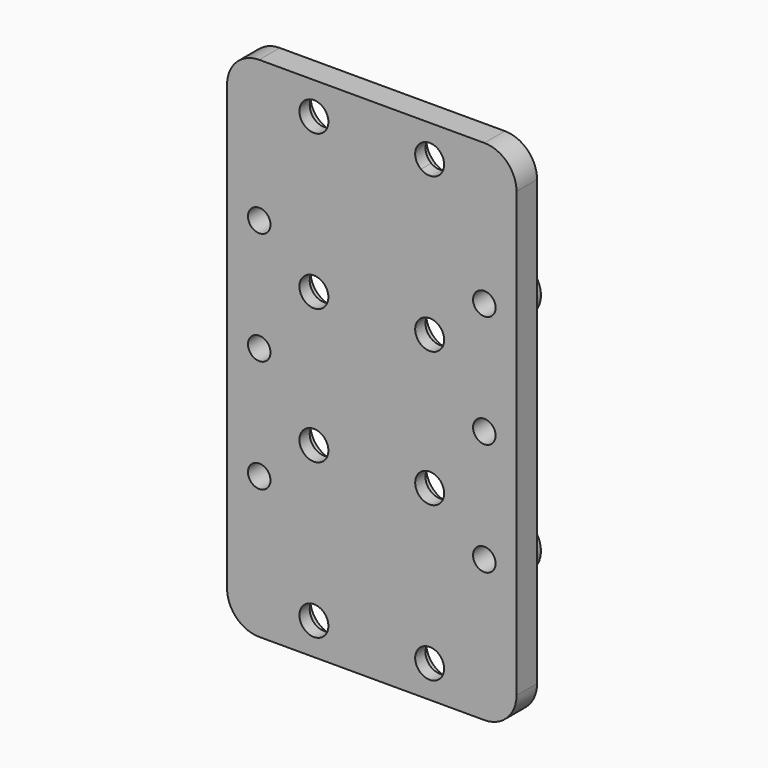
from build123d import *

# Parameters (mm, degrees)
F0_W     = 45
F0_H     = 79
F0_R     = 3.75
F0_R_2   = 4
F0_R_3   = 1.75
F0_R_4   = 2.25
F1_DEPTH = 4
F2_DEPTH = 2
F3_R     = 5
F4_DEPTH = 2


with BuildPart() as f1:
    # F0 (on Front) → F1 (new body)
    with BuildSketch(Plane.XZ):
        Rectangle(F0_W, F0_H)
        with Locations((-9, -34.5)):
            Circle(F0_R, mode=Mode.SUBTRACT)
        with Locations((-17.5, -17.5)):
            Circle(F0_R_2, mode=Mode.SUBTRACT)
        with Locations((-9, -10.5)):
            Circle(F0_R, mode=Mode.SUBTRACT)
        with Locations((9, -34.5)):
            Circle(F0_R, mode=Mode.SUBTRACT)
        with Locations((9, -10.5)):
            Circle(F0_R, mode=Mode.SUBTRACT)
        with Locations((17.5, -17.5)):
            Circle(F0_R_2, mode=Mode.SUBTRACT)
        with Locations((-17.5, 0)):
            Circle(F0_R_3, mode=Mode.SUBTRACT)
        with Locations((-17.5, 17.5)):
            Circle(F0_R_2, mode=Mode.SUBTRACT)
        with BuildLine():
            ThreePointArc((-5.25, 10.5), (-12.354102, 8.822949), (-6.75, 13.5))
            ThreePointArc((-6.75, 13.5), (-5.645898, 12.177051), (-5.25, 10.5))
        make_face(mode=Mode.SUBTRACT)
        with BuildLine():
            ThreePointArc((-5.25, 34.5), (-5.645898, 32.822949), (-6.75, 31.5))
            ThreePointArc((-6.75, 31.5), (-12.354102, 36.177051), (-5.25, 34.5))
        make_face(mode=Mode.SUBTRACT)
        Circle(F0_R_2, mode=Mode.SUBTRACT)
        with BuildLine():
            ThreePointArc((12.75, 10.5), (7.322949, 7.145898), (6.75, 13.5))
            ThreePointArc((6.75, 13.5), (10.677051, 13.854102), (12.75, 10.5))
        make_face(mode=Mode.SUBTRACT)
        with Locations((17.5, 0)):
            Circle(F0_R_3, mode=Mode.SUBTRACT)
        with Locations((17.5, 17.5)):
            Circle(F0_R_2, mode=Mode.SUBTRACT)
        with BuildLine():
            ThreePointArc((12.75, 34.5), (10.677051, 31.145898), (6.75, 31.5))
            ThreePointArc((6.75, 31.5), (7.322949, 37.854102), (12.75, 34.5))
        make_face(mode=Mode.SUBTRACT)
        with BuildLine():
            ThreePointArc((-7.65, 32.7), (-6.987539, 33.493769), (-6.75, 34.5))
            ThreePointArc((-6.75, 34.5), (-11.012461, 35.506231), (-7.65, 32.7))
        make_face()
        with BuildLine():
            ThreePointArc((-5.25, 34.5), (-12.354102, 36.177051), (-6.75, 31.5))
            ThreePointArc((-6.75, 31.5), (-5.645898, 32.822949), (-5.25, 34.5))
        make_face()
        with BuildLine():
            ThreePointArc((-7.65, 32.7), (-11.012461, 35.506231), (-6.75, 34.5))
            ThreePointArc((-6.75, 34.5), (-6.987539, 33.493769), (-7.65, 32.7))
        make_face(mode=Mode.SUBTRACT)
        with BuildLine():
            ThreePointArc((11.25, 34.5), (7.993769, 36.512461), (7.65, 32.7))
            ThreePointArc((7.65, 32.7), (10.006231, 32.487539), (11.25, 34.5))
        make_face()
        with BuildLine():
            ThreePointArc((12.75, 34.5), (7.322949, 37.854102), (6.75, 31.5))
            ThreePointArc((6.75, 31.5), (10.677051, 31.145898), (12.75, 34.5))
        make_face()
        with BuildLine():
            ThreePointArc((11.25, 34.5), (10.006231, 32.487539), (7.65, 32.7))
            ThreePointArc((7.65, 32.7), (7.993769, 36.512461), (11.25, 34.5))
        make_face(mode=Mode.SUBTRACT)
        with BuildLine():
            ThreePointArc((11.25, 10.5), (10.006231, 12.512461), (7.65, 12.3))
            ThreePointArc((7.65, 12.3), (7.993769, 8.487539), (11.25, 10.5))
        make_face()
        with BuildLine():
            ThreePointArc((12.75, 10.5), (10.677051, 13.854102), (6.75, 13.5))
            ThreePointArc((6.75, 13.5), (7.322949, 7.145898), (12.75, 10.5))
        make_face()
        with BuildLine():
            ThreePointArc((11.25, 10.5), (7.993769, 8.487539), (7.65, 12.3))
            ThreePointArc((7.65, 12.3), (10.006231, 12.512461), (11.25, 10.5))
        make_face(mode=Mode.SUBTRACT)
        with BuildLine():
            ThreePointArc((-6.75, 10.5), (-6.987539, 11.506231), (-7.65, 12.3))
            ThreePointArc((-7.65, 12.3), (-11.012461, 9.493769), (-6.75, 10.5))
        make_face()
        with BuildLine():
            ThreePointArc((-5.25, 10.5), (-5.645898, 12.177051), (-6.75, 13.5))
            ThreePointArc((-6.75, 13.5), (-12.354102, 8.822949), (-5.25, 10.5))
        make_face()
        with BuildLine():
            ThreePointArc((-6.75, 10.5), (-11.012461, 9.493769), (-7.65, 12.3))
            ThreePointArc((-7.65, 12.3), (-6.987539, 11.506231), (-6.75, 10.5))
        make_face(mode=Mode.SUBTRACT)
        with Locations((-17.5, 17.5)):
            Circle(F0_R_2)
        with Locations((-17.5, 17.5)):
            Circle(F0_R_3, mode=Mode.SUBTRACT)
        Circle(F0_R_2)
        with Locations((-17.5, -17.5)):
            Circle(F0_R_2)
        with Locations((-17.5, -17.5)):
            Circle(F0_R_3, mode=Mode.SUBTRACT)
        with Locations((17.5, -17.5)):
            Circle(F0_R_2)
        with Locations((17.5, -17.5)):
            Circle(F0_R_3, mode=Mode.SUBTRACT)
        with Locations((17.5, 17.5)):
            Circle(F0_R_2)
        with Locations((17.5, 17.5)):
            Circle(F0_R_3, mode=Mode.SUBTRACT)
        with Locations((9, -10.5)):
            Circle(F0_R)
        with Locations((9, -10.5)):
            Circle(F0_R_4, mode=Mode.SUBTRACT)
        with Locations((-9, -10.5)):
            Circle(F0_R)
        with Locations((-9, -10.5)):
            Circle(F0_R_4, mode=Mode.SUBTRACT)
        with Locations((9, -34.5)):
            Circle(F0_R)
        with Locations((9, -34.5)):
            Circle(F0_R_4, mode=Mode.SUBTRACT)
        with Locations((-9, -34.5)):
            Circle(F0_R)
        with Locations((-9, -34.5)):
            Circle(F0_R_4, mode=Mode.SUBTRACT)
        with BuildLine():
            ThreePointArc((12.75, 10.5), (10.677051, 13.854102), (6.75, 13.5))
            ThreePointArc((6.75, 13.5), (7.322949, 7.145898), (12.75, 10.5))
        make_face()
        with BuildLine():
            ThreePointArc((11.25, 10.5), (7.993769, 8.487539), (7.65, 12.3))
            ThreePointArc((7.65, 12.3), (10.006231, 12.512461), (11.25, 10.5))
        make_face(mode=Mode.SUBTRACT)
        with BuildLine():
            ThreePointArc((-5.25, 10.5), (-5.645898, 12.177051), (-6.75, 13.5))
            ThreePointArc((-6.75, 13.5), (-12.354102, 8.822949), (-5.25, 10.5))
        make_face()
        with BuildLine():
            ThreePointArc((-6.75, 10.5), (-11.012461, 9.493769), (-7.65, 12.3))
            ThreePointArc((-7.65, 12.3), (-6.987539, 11.506231), (-6.75, 10.5))
        make_face(mode=Mode.SUBTRACT)
        with BuildLine():
            ThreePointArc((12.75, 34.5), (7.322949, 37.854102), (6.75, 31.5))
            ThreePointArc((6.75, 31.5), (10.677051, 31.145898), (12.75, 34.5))
        make_face()
        with BuildLine():
            ThreePointArc((11.25, 34.5), (10.006231, 32.487539), (7.65, 32.7))
            ThreePointArc((7.65, 32.7), (7.993769, 36.512461), (11.25, 34.5))
        make_face(mode=Mode.SUBTRACT)
        with BuildLine():
            ThreePointArc((-5.25, 34.5), (-12.354102, 36.177051), (-6.75, 31.5))
            ThreePointArc((-6.75, 31.5), (-5.645898, 32.822949), (-5.25, 34.5))
        make_face()
        with BuildLine():
            ThreePointArc((-7.65, 32.7), (-11.012461, 35.506231), (-6.75, 34.5))
            ThreePointArc((-6.75, 34.5), (-6.987539, 33.493769), (-7.65, 32.7))
        make_face(mode=Mode.SUBTRACT)
    extrude(amount=F1_DEPTH)

    # F0 (on Front) → F2 (join)
    with BuildSketch(Plane.XZ):
        with Locations((-17.5, 17.5)):
            Circle(F0_R_2)
        with Locations((-17.5, 17.5)):
            Circle(F0_R_3, mode=Mode.SUBTRACT)
        with Locations((17.5, 17.5)):
            Circle(F0_R_2)
        with Locations((17.5, 17.5)):
            Circle(F0_R_3, mode=Mode.SUBTRACT)
        Circle(F0_R_2)
        with Locations((-17.5, -17.5)):
            Circle(F0_R_2)
        with Locations((-17.5, -17.5)):
            Circle(F0_R_3, mode=Mode.SUBTRACT)
        with Locations((17.5, -17.5)):
            Circle(F0_R_2)
        with Locations((17.5, -17.5)):
            Circle(F0_R_3, mode=Mode.SUBTRACT)
    extrude(amount=-F2_DEPTH)

    # F3
    f3_edges = [f1.edges().sort_by_distance(p)[0] for p in [
        (-22.5, -2, 39.5),
        (-22.5, -2, -39.5),
        (22.5, -2, -39.5),
        (22.5, -2, 39.5),
    ]]
    fillet(f3_edges, radius=F3_R)

    # F0 (on Front) → F4 (cut)
    with BuildSketch(Plane.XZ):
        with BuildLine():
            ThreePointArc((-5.25, 34.5), (-12.354102, 36.177051), (-6.75, 31.5))
            ThreePointArc((-6.75, 31.5), (-5.645898, 32.822949), (-5.25, 34.5))
        make_face()
        with BuildLine():
            ThreePointArc((-7.65, 32.7), (-11.012461, 35.506231), (-6.75, 34.5))
            ThreePointArc((-6.75, 34.5), (-6.987539, 33.493769), (-7.65, 32.7))
        make_face(mode=Mode.SUBTRACT)
        with BuildLine():
            ThreePointArc((-5.25, 10.5), (-5.645898, 12.177051), (-6.75, 13.5))
            ThreePointArc((-6.75, 13.5), (-12.354102, 8.822949), (-5.25, 10.5))
        make_face()
        with BuildLine():
            ThreePointArc((-6.75, 10.5), (-11.012461, 9.493769), (-7.65, 12.3))
            ThreePointArc((-7.65, 12.3), (-6.987539, 11.506231), (-6.75, 10.5))
        make_face(mode=Mode.SUBTRACT)
        with BuildLine():
            ThreePointArc((12.75, 10.5), (10.677051, 13.854102), (6.75, 13.5))
            ThreePointArc((6.75, 13.5), (7.322949, 7.145898), (12.75, 10.5))
        make_face()
        with BuildLine():
            ThreePointArc((11.25, 10.5), (7.993769, 8.487539), (7.65, 12.3))
            ThreePointArc((7.65, 12.3), (10.006231, 12.512461), (11.25, 10.5))
        make_face(mode=Mode.SUBTRACT)
        with BuildLine():
            ThreePointArc((12.75, 34.5), (7.322949, 37.854102), (6.75, 31.5))
            ThreePointArc((6.75, 31.5), (10.677051, 31.145898), (12.75, 34.5))
        make_face()
        with BuildLine():
            ThreePointArc((11.25, 34.5), (10.006231, 32.487539), (7.65, 32.7))
            ThreePointArc((7.65, 32.7), (7.993769, 36.512461), (11.25, 34.5))
        make_face(mode=Mode.SUBTRACT)
        with Locations((-9, -10.5)):
            Circle(F0_R)
        with Locations((-9, -10.5)):
            Circle(F0_R_4, mode=Mode.SUBTRACT)
        with Locations((9, -10.5)):
            Circle(F0_R)
        with Locations((9, -10.5)):
            Circle(F0_R_4, mode=Mode.SUBTRACT)
        with Locations((9, -34.5)):
            Circle(F0_R)
        with Locations((9, -34.5)):
            Circle(F0_R_4, mode=Mode.SUBTRACT)
        with Locations((-9, -34.5)):
            Circle(F0_R)
        with Locations((-9, -34.5)):
            Circle(F0_R_4, mode=Mode.SUBTRACT)
    extrude(amount=F4_DEPTH, mode=Mode.SUBTRACT)


solid = f1.part
